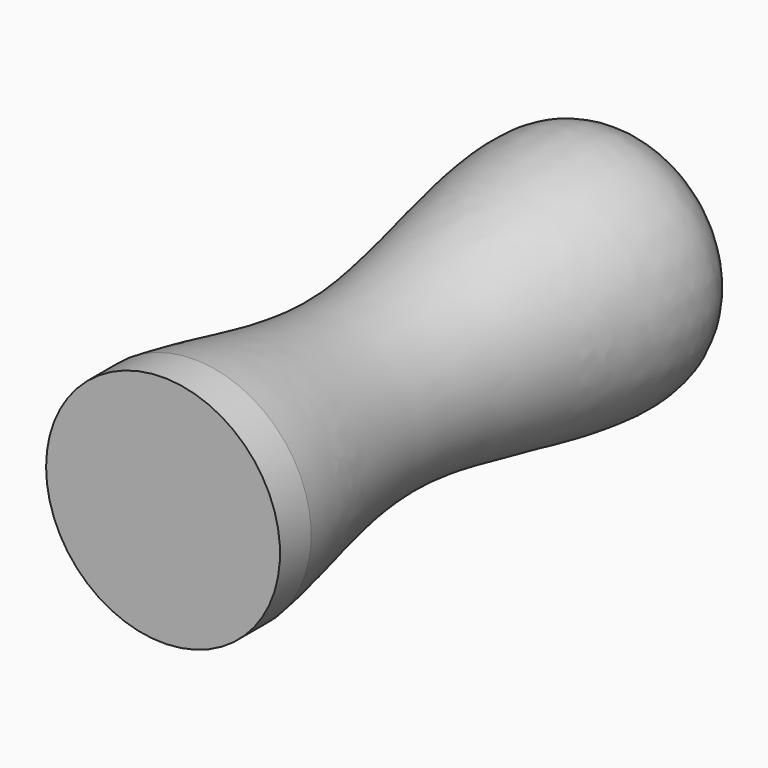
from build123d import *


with BuildPart() as f1:
    # F0 (on Top) → F1 (revolve)
    with BuildSketch(Plane.XY):
        with BuildLine():
            Line((-37.4280959368, 0), (0.6719040632, 0))
            Line((0.6719040632, 0), (0.6719040632, 177.8))
            Line((0.6719040632, 177.8), (-12.0280959368, 177.8))
            Line((-12.0280959368, 177.8), (-12.0280959368, 196.85))
            add(Edge.make_bspline(
                [(-37.4280959368, 12.7), (-33.940836514, 37.6194685348), (-16.1156521968, 84.1044214137), (-52.0511394583, 182.0695071111), (-22.8839161048, 193.1870937577), (-12.0280959368, 196.85)],
                knots=[0, 0, 0, 0, 0.3674404133, 0.7638608155, 1, 1, 1, 1], degree=3))
            Line((-37.4280959368, 12.7), (-37.4280959368, 0))
        make_face()
    revolve(axis=Axis((0.6719040632, 88.9, 0), (0, -1, 0)))


solid = f1.part
